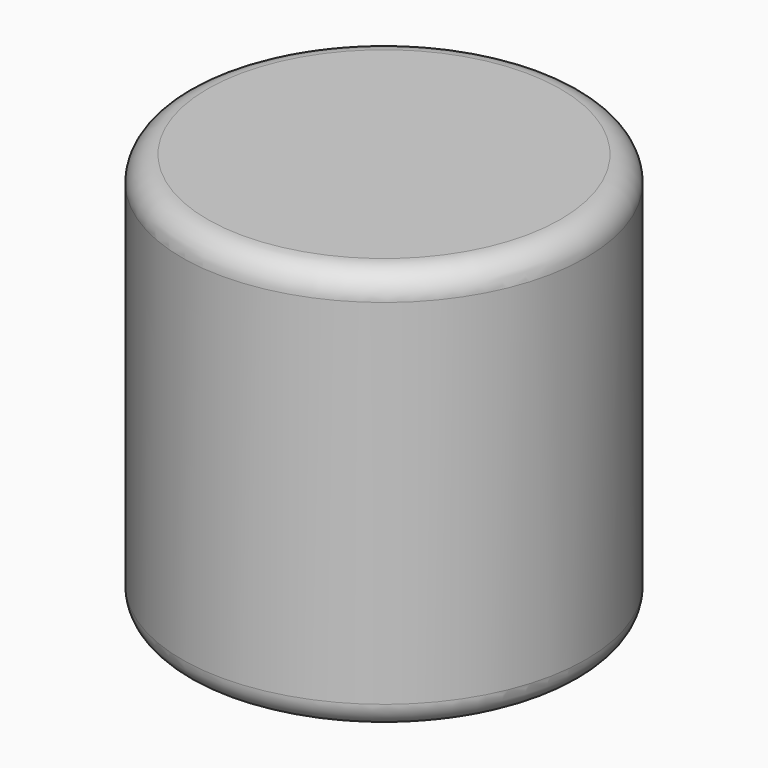
from build123d import *

# Parameters (mm, degrees)
SKETCH_R       = 1.5875
PAD_DEPTH      = 1.59
PAD_DEPTH_BACK = 1.59
FILLET_R       = 0.2


with BuildPart() as part:
    # Sketch → Pad (new body, two sides)
    with BuildSketch(Plane.XY) as pad_sk:
        Circle(SKETCH_R)
    extrude(amount=PAD_DEPTH)
    extrude(pad_sk.sketch, amount=-PAD_DEPTH_BACK)

    # Fillet
    fillet_edges = [part.edges().sort_by_distance(p)[0] for p in [
        (-1.5875, 0, 1.59),
        (-1.5875, 0, -1.59),
    ]]
    fillet(fillet_edges, radius=FILLET_R)


solid = part.part
